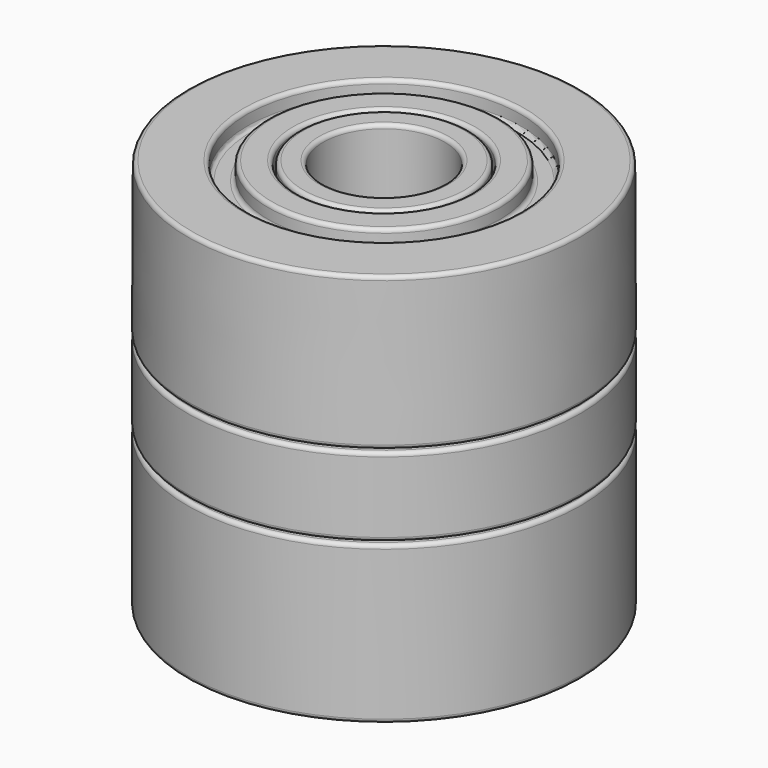
from build123d import *


with BuildPart() as f1:
    # F0 (on Front) → F1 (revolve)
    with BuildSketch(Plane.XZ):
        with BuildLine():
            Line((0, 13.462), (0, 11.43))
            Line((0, 11.43), (1.6256, 11.43))
            Line((1.6256, 11.43), (1.6256, 0))
            Line((1.6256, 0), (31.115, 0))
            ThreePointArc((31.115, 0), (31.564013, 0.185987), (31.75, 0.635))
            Line((31.75, 0.635), (31.75, 24.762495))
            ThreePointArc((31.75, 24.762495), (31.563128, 25.212391), (31.1125, 25.39749))
            Line((31.1125, 25.39749), (22.7051, 25.36439))
            ThreePointArc((22.7051, 25.36439), (22.257704, 25.177523), (22.0726, 24.729395))
            Line((22.0726, 24.729395), (22.0726, 23.0505))
            ThreePointArc((22.0726, 23.0505), (21.886613, 22.601487), (21.4376, 22.4155))
            Line((21.4376, 22.4155), (19.3548, 22.4155))
            ThreePointArc((19.3548, 22.4155), (18.905787, 22.601487), (18.7198, 23.0505))
            Line((18.7198, 23.0505), (18.7198, 24.7269))
            ThreePointArc((18.7198, 24.7269), (18.533813, 25.175913), (18.0848, 25.3619))
            Line((18.0848, 25.3619), (14.2748, 25.3619))
            ThreePointArc((14.2748, 25.3619), (13.825787, 25.547887), (13.6398, 25.9969))
            Line((13.6398, 25.9969), (13.6398, 62.865))
            ThreePointArc((13.6398, 62.865), (13.453813, 63.314013), (13.0048, 63.5))
            Line((13.0048, 63.5), (10.4648, 63.5))
            ThreePointArc((10.4648, 63.5), (10.015787, 63.314013), (9.8298, 62.865))
            Line((9.8298, 62.865), (9.8298, 27.000616))
            ThreePointArc((9.8298, 27.000616), (9.758031, 26.707367), (9.558949, 26.480404))
            Line((9.558949, 26.480404), (5.020651, 23.303596))
            ThreePointArc((5.020651, 23.303596), (4.821569, 23.076633), (4.7498, 22.783384))
            Line((4.7498, 22.783384), (4.7498, 2.667))
            ThreePointArc((4.7498, 2.667), (4.563813, 2.217987), (4.1148, 2.032))
            Line((4.1148, 2.032), (3.6576, 2.032))
            Line((3.6576, 2.032), (3.6576, 12.827))
            ThreePointArc((3.6576, 12.827), (3.471613, 13.276013), (3.0226, 13.462))
            Line((3.0226, 13.462), (0, 13.462))
        make_face()
        with BuildLine():
            ThreePointArc((14.6812, 38.5064), (14.232187, 38.320413), (14.0462, 37.8714))
            Line((14.0462, 37.8714), (14.0462, 26.4414))
            ThreePointArc((14.0462, 26.4414), (14.232187, 25.992387), (14.6812, 25.8064))
            Line((14.6812, 25.8064), (19.1262, 25.8064))
            Line((19.1262, 25.8064), (19.1262, 23.9014))
            ThreePointArc((19.1262, 23.9014), (19.312187, 23.452387), (19.7612, 23.2664))
            Line((19.7612, 23.2664), (21.0312, 23.2664))
            ThreePointArc((21.0312, 23.2664), (21.480213, 23.452387), (21.6662, 23.9014))
            Line((21.6662, 23.9014), (21.6662, 25.8064))
            Line((21.6662, 25.8064), (31.115, 25.8064))
            ThreePointArc((31.115, 25.8064), (31.564013, 25.992387), (31.75, 26.4414))
            Line((31.75, 26.4414), (31.75, 37.8714))
            ThreePointArc((31.75, 37.8714), (31.564013, 38.320413), (31.115, 38.5064))
            Line((31.115, 38.5064), (22.7076, 38.5064))
            ThreePointArc((22.7076, 38.5064), (22.258587, 38.320413), (22.0726, 37.8714))
            Line((22.0726, 37.8714), (22.0726, 36.195))
            ThreePointArc((22.0726, 36.195), (21.886613, 35.745987), (21.4376, 35.56))
            Line((21.4376, 35.56), (19.3548, 35.56))
            ThreePointArc((19.3548, 35.56), (18.905787, 35.745987), (18.7198, 36.195))
            Line((18.7198, 36.195), (18.7198, 37.8714))
            ThreePointArc((18.7198, 37.8714), (18.533813, 38.320413), (18.0848, 38.5064))
            Line((18.0848, 38.5064), (14.6812, 38.5064))
        make_face()
        with BuildLine():
            ThreePointArc((14.0462, 39.5478), (14.232187, 39.098787), (14.6812, 38.9128))
            Line((14.6812, 38.9128), (19.1262, 38.9128))
            Line((19.1262, 38.9128), (19.1262, 37.000325))
            ThreePointArc((19.1262, 37.000325), (19.313072, 36.550429), (19.7637, 36.36533))
            Line((19.7637, 36.36533), (21.031205, 36.37032))
            ThreePointArc((21.031205, 36.37032), (21.479482, 36.558073), (21.6637, 37.007815))
            Line((21.6637, 37.007815), (21.6562, 38.9128))
            Line((21.6562, 38.9128), (31.112495, 38.9128))
            ThreePointArc((31.112495, 38.9128), (31.562391, 39.099672), (31.74749, 39.5503))
            Line((31.74749, 39.5503), (31.65569, 62.8675))
            ThreePointArc((31.65569, 62.8675), (31.468823, 63.314896), (31.020695, 63.5))
            Line((31.020695, 63.5), (22.7076, 63.5))
            ThreePointArc((22.7076, 63.5), (22.258587, 63.314013), (22.0726, 62.865))
            Line((22.0726, 62.865), (22.0726, 61.1886))
            ThreePointArc((22.0726, 61.1886), (21.886613, 60.739587), (21.4376, 60.5536))
            Line((21.4376, 60.5536), (19.3548, 60.5536))
            ThreePointArc((19.3548, 60.5536), (18.905787, 60.739587), (18.7198, 61.1886))
            Line((18.7198, 61.1886), (18.7198, 62.865))
            ThreePointArc((18.7198, 62.865), (18.533813, 63.314013), (18.0848, 63.5))
            Line((18.0848, 63.5), (14.6812, 63.5))
            ThreePointArc((14.6812, 63.5), (14.232187, 63.314013), (14.0462, 62.865))
            Line((14.0462, 62.865), (14.0462, 39.5478))
        make_face()
    revolve(axis=Axis((0, 0, 12.446), (0, 0, -1)))


solid = f1.part
